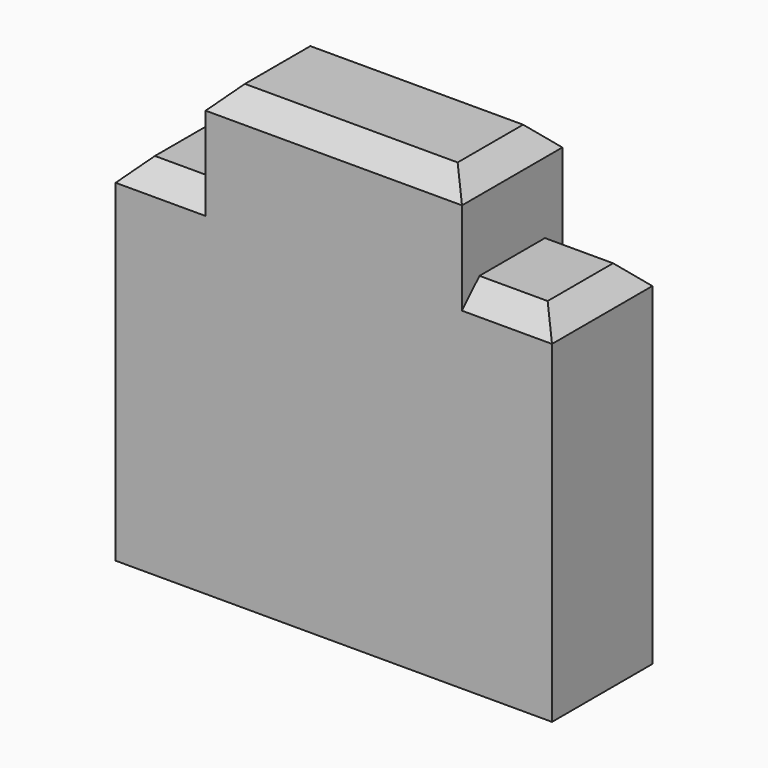
from build123d import *

# Parameters (mm, degrees)
SKETCH008_W     = 4
SKETCH008_H     = 1.15
PAD005_DEPTH    = 4.1
SKETCH009_W     = 0.825
SKETCH009_H     = 0.85
POCKET002_DEPTH = 5
CHAMFER005_SIZE = 0.2


with BuildPart() as part:
    # Sketch008 → Pad005 (new body)
    with BuildSketch(Plane.XY):
        Rectangle(SKETCH008_W, SKETCH008_H)
    extrude(amount=PAD005_DEPTH)

    # Sketch009 (on Face1 of Pad005) → Pocket002 (cut)
    with BuildSketch(Plane(origin=(0, 0.575, 0), x_dir=(-1, 0, 0), z_dir=(0, 1, 0))):
        with Locations((-1.5875, 3.675)):
            Rectangle(SKETCH009_W, SKETCH009_H)
        with Locations((1.5875, 3.675)):
            Rectangle(SKETCH009_W, SKETCH009_H)
    extrude(amount=-POCKET002_DEPTH, mode=Mode.SUBTRACT)

    # Chamfer005
    chamfer005_edges = [part.edges().sort_by_distance(p)[0] for p in [
        (0, 0.575, 4.1),
        (0, -0.575, 4.1),
        (1.5875, 0.575, 3.25),
        (-1.5875, 0.575, 3.25),
        (-1.5875, -0.575, 3.25),
        (1.5875, -0.575, 3.25),
        (2, 0, 3.25),
        (-2, 0, 3.25),
        (1.175, 0, 4.1),
        (-1.175, 0, 4.1),
    ]]
    chamfer(chamfer005_edges, length=CHAMFER005_SIZE)


with BuildPart() as part_1:
    # Body049 placement: moved
    add(part.part.moved(Location((0, 90, 0))))


solid = part_1.part
